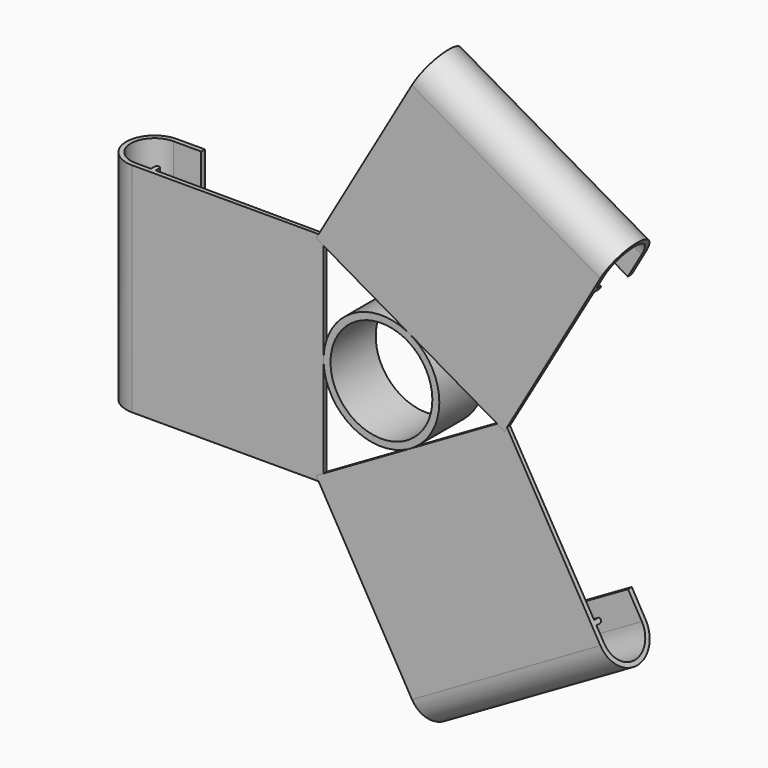
from build123d import *

# Parameters (mm, degrees)
F0_R      = 12.5
F0_R_2    = 11
F1_DEPTH  = 12.2
F3_DEPTH  = 23.5
F7_DEPTH  = 23.5
F11_DEPTH = 23.5
F13_R     = 11
F14_DEPTH = 25


with BuildPart() as f1:
    # F0 (on Front) → F1 (new body)
    with BuildSketch(Plane.XZ):
        Circle(F0_R)
        Circle(F0_R_2, mode=Mode.SUBTRACT)
    extrude(amount=-F1_DEPTH)

    # F13 (on offset) → F14 (cut)
    with BuildSketch(Plane.XZ.offset(-12.2)):
        Circle(F13_R)
    extrude(amount=F14_DEPTH, mode=Mode.SUBTRACT)


with BuildPart() as f3:
    # F2 (on Top) → F3 (new body, symmetric)
    with BuildSketch(Plane.XY):
        with BuildLine():
            ThreePointArc((-53.9000045358, 1), (-59.0000045358, 6.1), (-53.9000045358, 11.2))
            Line((-53.9000045358, 11.2), (-47.9000045358, 11.2))
            Line((-47.9000045358, 11.2), (-47.9000045358, 12.2))
            Line((-47.9000045358, 12.2), (-53.9000045358, 12.2))
            ThreePointArc((-53.9000045358, 12.2), (-60.0000045358, 6.1), (-53.9000045358, 0))
            Line((-53.9000045358, 0), (-49.58, 0))
            Line((-49.58, 0), (-12.5, 0))
            Line((-12.5, 0), (-12.5, 0.7875138404))
            Line((-12.5, 0.7875138404), (-49.58, 1))
            Line((-49.58, 1), (-49.58, 2))
            ThreePointArc((-49.58, 2), (-50.08, 2.5), (-50.58, 2))
            Line((-50.58, 2), (-50.58, 1))
            Line((-50.58, 1), (-53.9000045358, 1))
        make_face()
    extrude(amount=F3_DEPTH, both=True)


with BuildPart() as f7:
    # F6 (on line) → F7 (new body, symmetric)
    with BuildSketch(Plane(origin=(0, 0, 0), x_dir=(0, -1, 0), z_dir=(-0.8660254038, 0, -0.5))):
        with BuildLine():
            ThreePointArc((-1, -53.9000045358), (-6.1, -59.0000045358), (-11.2, -53.9000045358))
            Line((-11.2, -53.9000045358), (-11.2, -47.9000045358))
            Line((-11.2, -47.9000045358), (-12.2, -47.9000045358))
            Line((-12.2, -47.9000045358), (-12.2, -53.9000045358))
            ThreePointArc((-12.2, -53.9000045358), (-6.1, -60.0000045358), (0, -53.9000045358))
            Line((0, -53.9000045358), (0, -49.58))
            Line((0, -49.58), (0, -12.5055553867))
            Line((0, -12.5055553867), (-0.7875456754, -12.5055553867))
            Line((-0.7875456754, -12.5055553867), (-1, -49.58))
            Line((-1, -49.58), (-2, -49.58))
            ThreePointArc((-2, -49.58), (-2.5, -50.08), (-2, -50.58))
            Line((-2, -50.58), (-1, -50.58))
            Line((-1, -50.58), (-1, -53.9000045358))
        make_face()
    extrude(amount=F7_DEPTH, both=True)


with BuildPart() as f11:
    # F10 (on line) → F11 (new body, symmetric)
    with BuildSketch(Plane(origin=(0, 0, 0), x_dir=(0, 1, 0), z_dir=(0.8660254038, 0, -0.5))):
        with BuildLine():
            ThreePointArc((1, 53.845282644), (6.1, 58.945282644), (11.2, 53.845282644))
            Line((11.2, 53.845282644), (11.2, 47.845282644))
            Line((11.2, 47.845282644), (12.2, 47.845282644))
            Line((12.2, 47.845282644), (12.2, 53.845282644))
            ThreePointArc((12.2, 53.845282644), (6.1, 59.945282644), (0, 53.845282644))
            Line((0, 53.845282644), (0, 49.5252781083))
            Line((0, 49.5252781083), (0, 12.5))
            Line((0, 12.5), (0.7878015529, 12.4954855198))
            Line((0.7878015529, 12.4954855198), (1, 49.5252781083))
            Line((1, 49.5252781083), (2, 49.5252781083))
            ThreePointArc((2, 49.5252781083), (2.5, 50.0252781083), (2, 50.5252781083))
            Line((2, 50.5252781083), (1, 50.5252781083))
            Line((1, 50.5252781083), (1, 53.845282644))
        make_face()
    extrude(amount=F11_DEPTH, both=True)


solid = Compound([f1.part, f3.part, f7.part, f11.part])
